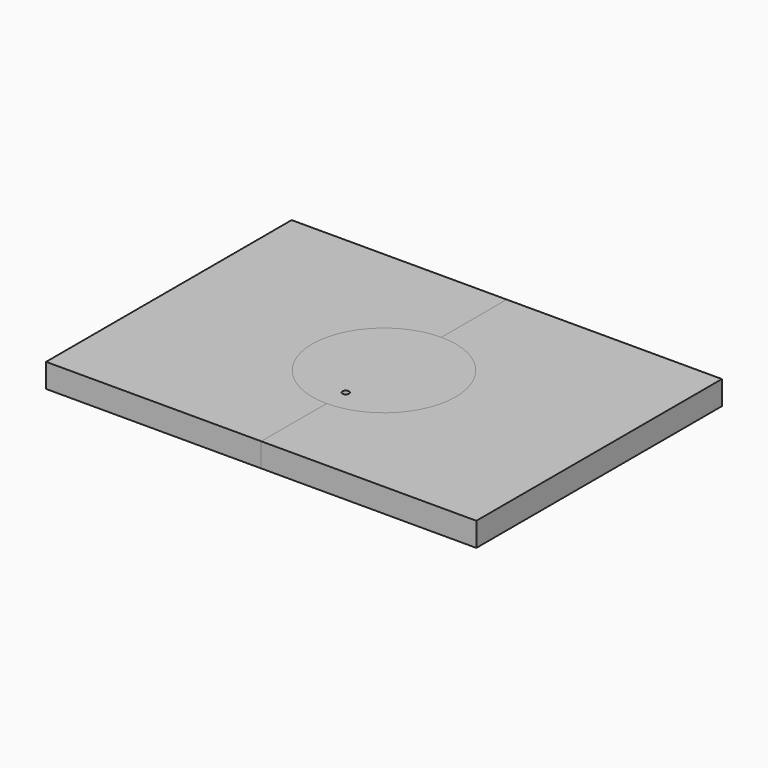
from build123d import *

# Parameters (mm, degrees)
F1_DEPTH = 50
F2_DEPTH = 50
F0_R     = 7
F3_DEPTH = 50


with BuildPart() as f1:
    # F0 (on Top) → F1 (new body)
    with BuildSketch(Plane.XY):
        with BuildLine():
            Line((0, 150), (0, 321))
            Line((0, 321), (-450, 321))
            Line((-450, 321), (-450, -321))
            Line((-450, -321), (0, -321))
            Line((0, -321), (0, -150))
            ThreePointArc((0, -150), (-150, 0), (0, 150))
        make_face()
    extrude(amount=F1_DEPTH)


with BuildPart() as f2:
    # F0 (on Top) → F2 (new body)
    with BuildSketch(Plane.XY):
        with BuildLine():
            Line((450, -321), (450, 321))
            Line((450, 321), (0, 321))
            Line((0, 321), (0, 150))
            ThreePointArc((0, 150), (106.066017, 106.066017), (150, 0))
            ThreePointArc((150, 0), (106.066017, -106.066017), (0, -150))
            Line((0, -150), (0, -321))
            Line((0, -321), (450, -321))
        make_face()
    extrude(amount=F2_DEPTH)


with BuildPart() as f3:
    # F0 (on Top) → F3 (new body)
    with BuildSketch(Plane.XY):
        with BuildLine():
            ThreePointArc((150, 0), (106.066017, 106.066017), (0, 150))
            ThreePointArc((0, 150), (-150, 0), (0, -150))
            ThreePointArc((0, -150), (106.066017, -106.066017), (150, 0))
        make_face()
        with Locations((0, -100)):
            Circle(F0_R, mode=Mode.SUBTRACT)
    extrude(amount=F3_DEPTH)


solid = Compound([f1.part, f2.part, f3.part])
